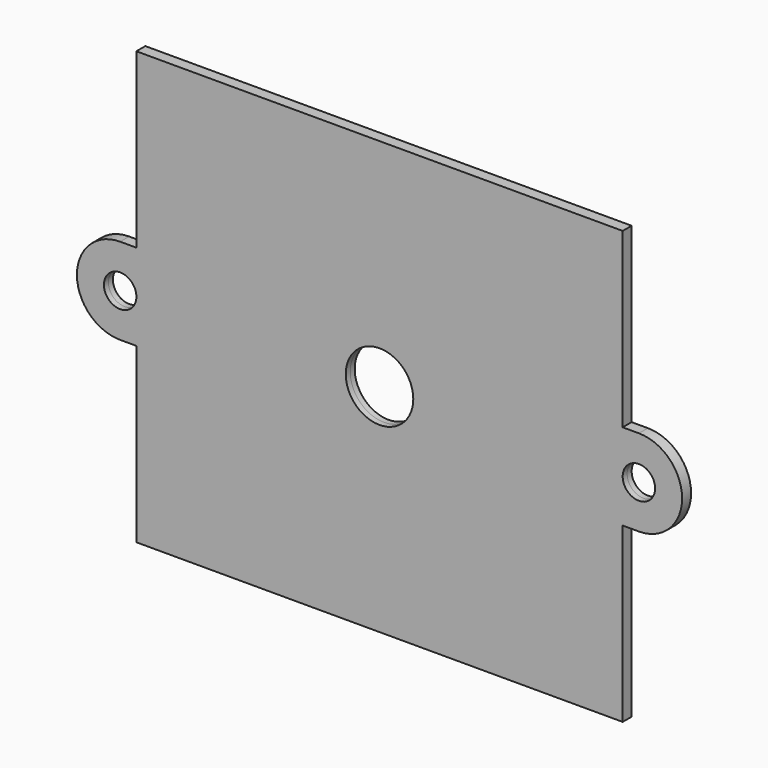
from build123d import *

# Parameters (mm, degrees)
F0_R          = 6
F0_R_2        = 12.5
F1_DEPTH      = 2.075
F1_DEPTH_BACK = 2.075


with BuildPart() as f1:
    # F0 (on Front) → F1 (new body, two sides)
    with BuildSketch(Plane.XZ) as f1_sk:
        with BuildLine():
            Line((90, 16), (90, 80))
            Line((90, 80), (-90, 80))
            Line((-90, 80), (-90, 16))
            Line((-90, 16), (-96, 16))
            ThreePointArc((-96, 16), (-112, 0), (-96, -16))
            Line((-96, -16), (-90, -16))
            Line((-90, -16), (-90, -80))
            Line((-90, -80), (90, -80))
            Line((90, -80), (90, -16))
            Line((90, -16), (96, -16))
            ThreePointArc((96, -16), (112, 0), (96, 16))
            Line((96, 16), (90, 16))
        make_face()
        with Locations((-96, 0)):
            Circle(F0_R, mode=Mode.SUBTRACT)
        Circle(F0_R_2, mode=Mode.SUBTRACT)
        with Locations((96, 0)):
            Circle(F0_R, mode=Mode.SUBTRACT)
    extrude(amount=F1_DEPTH)
    extrude(f1_sk.sketch, amount=-F1_DEPTH_BACK)


solid = f1.part
